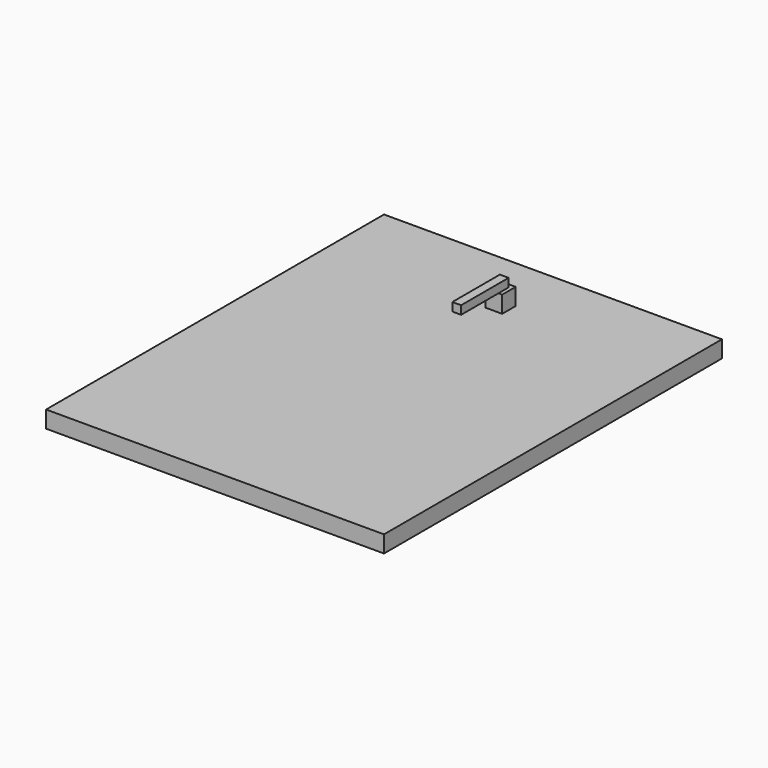
from build123d import *

# Parameters (mm, degrees)
F0_W     = 200
F0_H     = 250
F1_DEPTH = 10
F2_W     = 5.21805
F2_H     = 10
F2_W_2   = 4.78195
F3_DEPTH = 10
F5_W     = 5.184704
F5_H     = 5.141512
F6_DEPTH = 5
F7_W     = 5.184704
F7_H     = 5
F8_DEPTH = 30


with BuildPart() as f1:
    # F0 (on Top) → F1 (new body)
    with BuildSketch(Plane.XY):
        Rectangle(F0_W, F0_H)
    extrude(amount=F1_DEPTH)

    # F2 (on face) → F3 (join)
    with BuildSketch(Plane.XY.offset(10)):
        with Locations((-2.609025, 86.457404)):
            Rectangle(F2_W, F2_H)
        with Locations((2.390975, 86.457404)):
            Rectangle(F2_W_2, F2_H)
    extrude(amount=F3_DEPTH)

    # F5 (on face) → F6 (join)
    with BuildSketch(Plane.XY.offset(20)):
        with Locations((0, 86.392045)):
            Rectangle(F5_W, F5_H)
    extrude(amount=F6_DEPTH)

    # F7 (on face) → F8 (join)
    with BuildSketch(Plane.XZ.offset(-83.821289)):
        with Locations((0, 22.5)):
            Rectangle(F7_W, F7_H)
    extrude(amount=F8_DEPTH)


solid = f1.part
